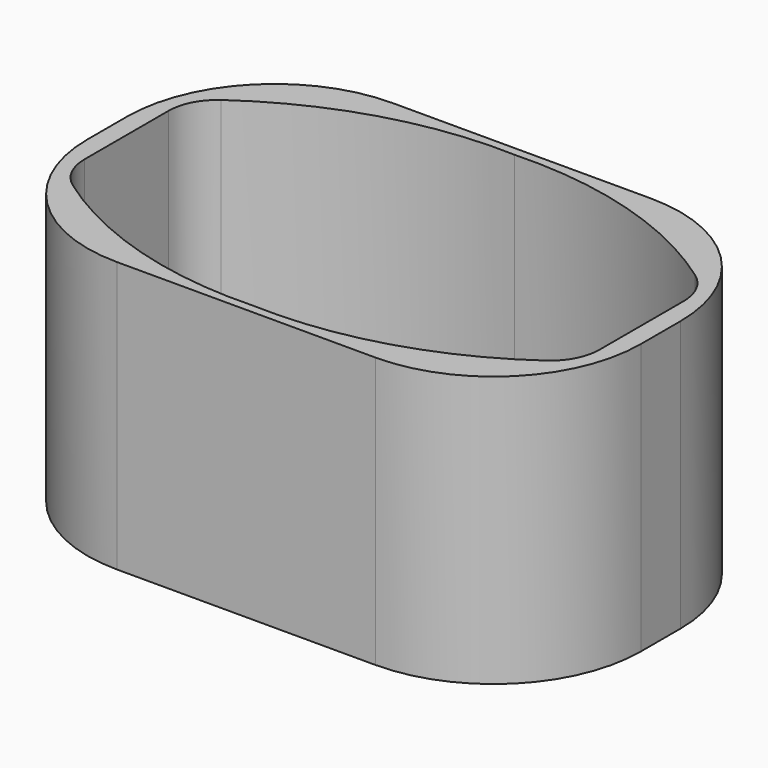
from build123d import *

# Parameters (mm, degrees)
F1_DEPTH = 55.88
F3_DEPTH = 54.38
F4_R     = 2.1556257218
F4_R_2   = 2.2
F5_DEPTH = 1.501


with BuildPart() as f1:
    # F0 (on Top) → F1 (new body)
    with BuildSketch(Plane.XY):
        with BuildLine():
            Line((26.67, 35.56), (-26.67, 35.56))
            ThreePointArc((-26.67, 35.56), (-48.2226146906, 26.6326146906), (-57.15, 5.08))
            Line((-57.15, 5.08), (-57.15, -5.08))
            ThreePointArc((-57.15, -5.08), (-48.2226146906, -26.6326146906), (-26.67, -35.56))
            Line((-26.67, -35.56), (26.67, -35.56))
            ThreePointArc((26.67, -35.56), (48.2226146906, -26.6326146906), (57.15, -5.08))
            Line((57.15, -5.08), (57.15, 5.08))
            ThreePointArc((57.15, 5.08), (48.2226146906, 26.6326146906), (26.67, 35.56))
        make_face()
    extrude(amount=F1_DEPTH)

    # F2 (on face) → F3 (cut, through all)
    with BuildSketch(Plane.XY.offset(55.88)):
        with BuildLine():
            ThreePointArc((48.9134000813, 19.1371286276), (25.6668993073, 30.4909660232), (0, 33.734375))
            ThreePointArc((0, 33.734375), (-25.6668993073, 30.4909660232), (-48.9134000813, 19.1371286276))
            ThreePointArc((-48.9134000813, 19.1371286276), (-52.0514727222, 15.5164140041), (-53.18125, 10.8601625518))
            Line((-53.18125, 10.8601625518), (-53.18125, 0))
            Line((-53.18125, 0), (-53.18125, -10.8601625518))
            ThreePointArc((-53.18125, -10.8601625518), (-52.0514727222, -15.5164140041), (-48.9134000813, -19.1371286276))
            ThreePointArc((-48.9134000813, -19.1371286276), (-25.6668993073, -30.4909660232), (0, -33.734375))
            ThreePointArc((0, -33.734375), (25.6668993073, -30.4909660232), (48.9134000813, -19.1371286276))
            ThreePointArc((48.9134000813, -19.1371286276), (52.0514727222, -15.5164140041), (53.18125, -10.8601625518))
            Line((53.18125, -10.8601625518), (53.18125, 0))
            Line((53.18125, 0), (53.18125, 10.8601625518))
            ThreePointArc((53.18125, 10.8601625518), (52.0514727222, 15.5164140041), (48.9134000813, 19.1371286276))
        make_face()
    extrude(amount=-F3_DEPTH, mode=Mode.SUBTRACT)

    # F4 (on face) → F5 (cut, through all)
    with BuildSketch(Plane.XY.offset(1.5)):
        with Locations((-25.4, 0)):
            Circle(F4_R)
        with Locations((25.4, 0)):
            Circle(F4_R_2)
    extrude(amount=-F5_DEPTH, mode=Mode.SUBTRACT)


solid = f1.part
